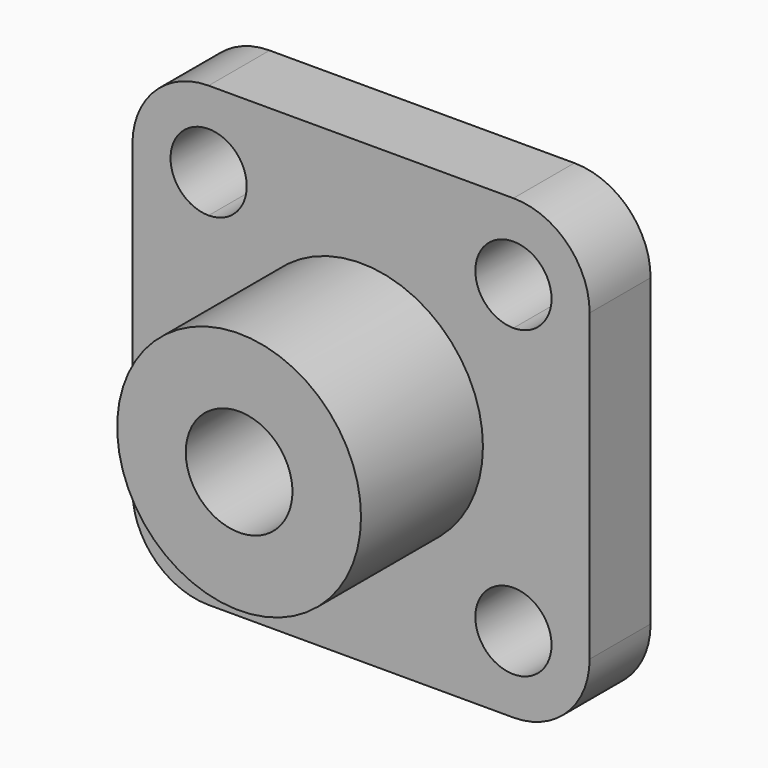
from build123d import *

# Parameters (mm, degrees)
F1_DEPTH = 10
F2_R     = 16
F3_DEPTH = 20
F5_D     = 14


with BuildPart() as f1:
    # F0 (on Front) → F1 (new body)
    with BuildSketch(Plane.XZ):
        with BuildLine():
            ThreePointArc((-16, 0), (0, 16), (16, 0))
            Line((16, 0), (20, 0))
            Line((20, 0), (20, 10))
            ThreePointArc((20, 10), (10, 20), (20, 30))
            Line((20, 30), (-20, 30))
            ThreePointArc((-20, 30), (-12.9289321881, 27.0710678119), (-10, 20))
            ThreePointArc((-10, 20), (-12.9289321881, 12.9289321881), (-20, 10))
            Line((-20, 10), (-20, 0))
            Line((-20, 0), (-16, 0))
        make_face()
        with BuildLine():
            Line((20, 0), (16, 0))
            ThreePointArc((16, 0), (0, -16), (-16, 0))
            Line((-16, 0), (-20, 0))
            Line((-20, 0), (-20, -10))
            ThreePointArc((-20, -10), (-12.9289321881, -12.9289321881), (-10, -20))
            ThreePointArc((-10, -20), (-12.9289321881, -27.0710678119), (-20, -30))
            Line((-20, -30), (20, -30))
            ThreePointArc((20, -30), (10, -20), (20, -10))
            Line((20, -10), (20, 0))
        make_face()
        with BuildLine():
            Line((20, 10), (20, 0))
            Line((20, 0), (20, -10))
            ThreePointArc((20, -10), (27.0710678119, -12.9289321881), (30, -20))
            Line((30, -20), (30, 20))
            ThreePointArc((30, 20), (27.0710678119, 12.9289321881), (20, 10))
        make_face()
        with BuildLine():
            ThreePointArc((20, 30), (10, 20), (20, 10))
            ThreePointArc((20, 10), (27.0710678119, 12.9289321881), (30, 20))
            ThreePointArc((30, 20), (27.0710678119, 27.0710678119), (20, 30))
        make_face()
        with BuildLine():
            ThreePointArc((25, 20), (23.5355339059, 16.4644660941), (20, 15))
            ThreePointArc((20, 15), (16.4644660941, 23.5355339059), (25, 20))
        make_face(mode=Mode.SUBTRACT)
        with BuildLine():
            ThreePointArc((-30, 20), (-27.0710678119, 12.9289321881), (-20, 10))
            ThreePointArc((-20, 10), (-12.9289321881, 12.9289321881), (-10, 20))
            ThreePointArc((-10, 20), (-12.9289321881, 27.0710678119), (-20, 30))
            ThreePointArc((-20, 30), (-27.0710678119, 27.0710678119), (-30, 20))
        make_face()
        with BuildLine():
            ThreePointArc((-15, 20), (-16.4644660941, 16.4644660941), (-20, 15))
            ThreePointArc((-20, 15), (-23.5355339059, 23.5355339059), (-15, 20))
        make_face(mode=Mode.SUBTRACT)
        with BuildLine():
            Line((-20, -10), (-20, 0))
            Line((-20, 0), (-20, 10))
            ThreePointArc((-20, 10), (-27.0710678119, 12.9289321881), (-30, 20))
            Line((-30, 20), (-30, -20))
            ThreePointArc((-30, -20), (-27.0710678119, -12.9289321881), (-20, -10))
        make_face()
        with BuildLine():
            ThreePointArc((-10, -20), (-12.9289321881, -12.9289321881), (-20, -10))
            ThreePointArc((-20, -10), (-27.0710678119, -12.9289321881), (-30, -20))
            ThreePointArc((-30, -20), (-27.0710678119, -27.0710678119), (-20, -30))
            ThreePointArc((-20, -30), (-12.9289321881, -27.0710678119), (-10, -20))
        make_face()
        with BuildLine():
            ThreePointArc((-15, -20), (-23.5355339059, -23.5355339059), (-20, -15))
            ThreePointArc((-20, -15), (-16.4644660941, -16.4644660941), (-15, -20))
        make_face(mode=Mode.SUBTRACT)
        with BuildLine():
            ThreePointArc((30, -20), (27.0710678119, -12.9289321881), (20, -10))
            ThreePointArc((20, -10), (10, -20), (20, -30))
            ThreePointArc((20, -30), (27.0710678119, -27.0710678119), (30, -20))
        make_face()
        with BuildLine():
            ThreePointArc((25, -20), (16.4644660941, -23.5355339059), (20, -15))
            ThreePointArc((20, -15), (23.5355339059, -16.4644660941), (25, -20))
        make_face(mode=Mode.SUBTRACT)
        with BuildLine():
            Line((0, 0), (16, 0))
            ThreePointArc((16, 0), (0, 16), (-16, 0))
            Line((-16, 0), (0, 0))
        make_face()
        with BuildLine():
            ThreePointArc((-16, 0), (0, -16), (16, 0))
            Line((16, 0), (0, 0))
            Line((0, 0), (-16, 0))
        make_face()
    extrude(amount=F1_DEPTH)

    # F2 (on face) → F3 (join)
    with BuildSketch(Plane.XZ.offset(10)):
        Circle(F2_R)
    extrude(amount=F3_DEPTH)

    # F5 (through all)
    with Locations(Plane.XZ.offset(30)):
        with Locations((0, 0)):
            Hole(F5_D / 2)


solid = f1.part
